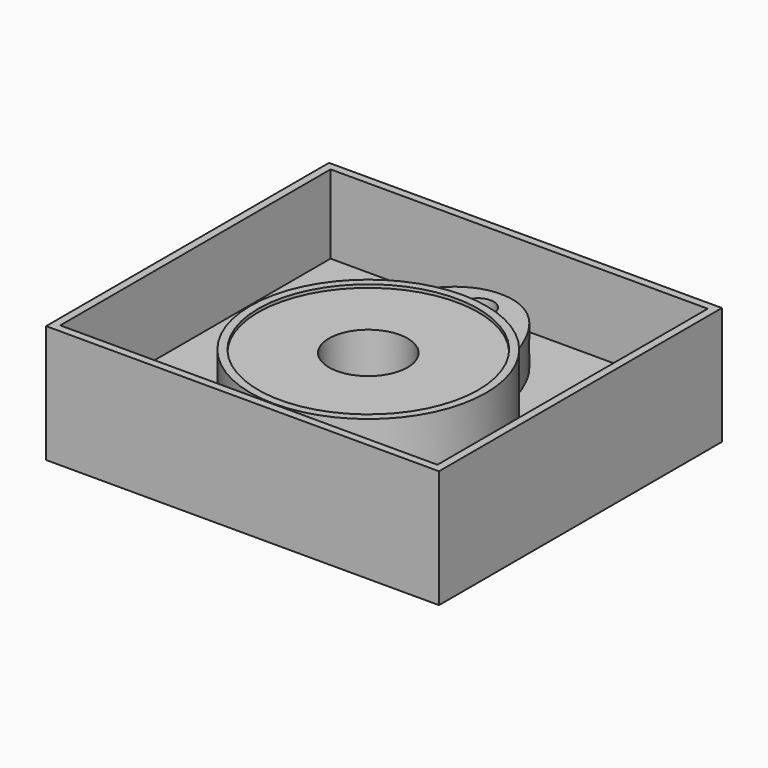
from build123d import *

# Parameters (mm, degrees)
SKETCH_R          = 15
PAD_DEPTH         = 7
SKETCH001_R       = 2
PAD001_DEPTH      = 5
SKETCH002_R       = 15
SKETCH002_R_2     = 14
PAD002_DEPTH      = 7.4
SKETCH003_W       = 50
SKETCH003_H       = 45
PAD003_DEPTH      = 5
SKETCH004_W       = 50
SKETCH004_H       = 45
SKETCH004_W_2     = 48
SKETCH004_H_2     = 43
PAD004_DEPTH      = 10
SKETCH005_R       = 5
POCKET_DEPTH      = 5.001
POCKET_DEPTH_BACK = -10.001
SKETCH006_R       = 2
POCKET001_DEPTH   = 4


with BuildPart() as part:
    # Sketch → Pad (new body)
    with BuildSketch(Plane.XY):
        Circle(SKETCH_R)
    extrude(amount=PAD_DEPTH)

    # Sketch001 → Pad001 (join)
    with BuildSketch(Plane.XY):
        with BuildLine():
            add(Edge.make_bspline(
                [(-9.089263, 11.932531), (-7.058013, 18.679317), (0, 23.549677), (7.058013, 18.679317), (9.089263, 11.932531)],
                knots=[0, 0, 0, 0, 0.5, 1, 1, 1, 1], degree=3))
            Line((9.089263, 11.932531), (-9.089263, 11.932531))
        make_face()
        with Locations((0, 17.442505)):
            Circle(SKETCH001_R, mode=Mode.SUBTRACT)
    extrude(amount=PAD001_DEPTH)

    # Sketch002 → Pad002 (join)
    with BuildSketch(Plane.XY):
        Circle(SKETCH002_R)
        Circle(SKETCH002_R_2, mode=Mode.SUBTRACT)
    extrude(amount=PAD002_DEPTH)

    # Sketch003 → Pad003 (join)
    with BuildSketch(Plane.XY):
        with Locations((0, 2.5)):
            Rectangle(SKETCH003_W, SKETCH003_H)
    extrude(amount=-PAD003_DEPTH)

    # Sketch004 → Pad004 (join)
    with BuildSketch(Plane.XY):
        with Locations((0, 2.5)):
            Rectangle(SKETCH004_W, SKETCH004_H)
        with Locations((0, 2.5)):
            Rectangle(SKETCH004_W_2, SKETCH004_H_2, mode=Mode.SUBTRACT)
    extrude(amount=PAD004_DEPTH)

    # Sketch005 → Pocket (cut, two sides)
    with BuildSketch(Plane.XY) as pocket_sk:
        Circle(SKETCH005_R)
    extrude(amount=-POCKET_DEPTH, mode=Mode.SUBTRACT)
    extrude(pocket_sk.sketch, amount=-POCKET_DEPTH_BACK, mode=Mode.SUBTRACT)

    # Sketch006 → Pocket001 (cut)
    with BuildSketch(Plane.XY):
        with Locations((0, 17.442505)):
            Circle(SKETCH006_R)
    extrude(amount=-POCKET001_DEPTH, mode=Mode.SUBTRACT)


solid = part.part
